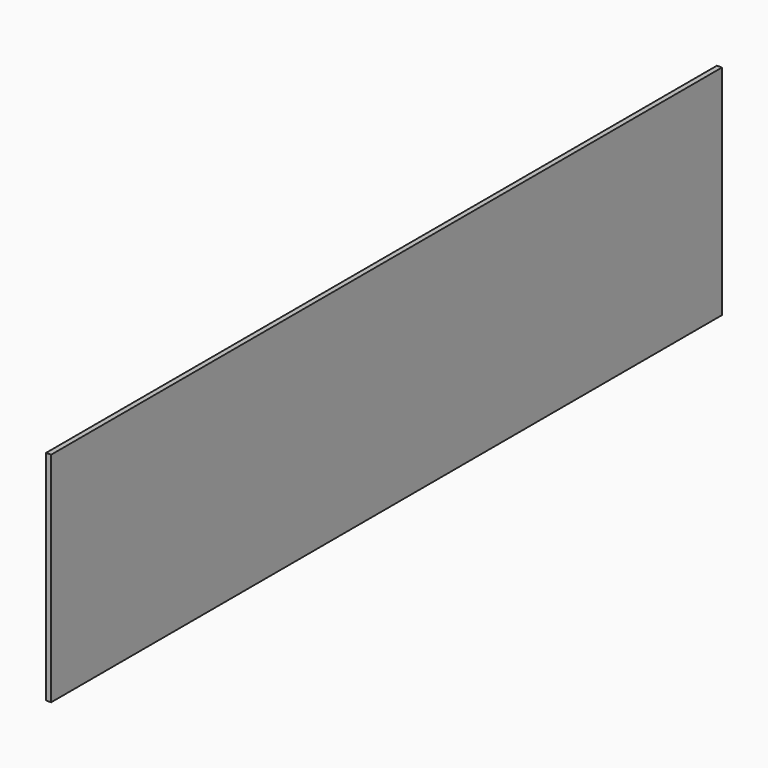
from build123d import *

# Parameters (mm, degrees)
PAD_DEPTH = 3


with BuildPart() as part:
    # Sketch → Pad (new body)
    with BuildSketch(Plane.YZ):
        Polygon((0, 0), (0, 130), (500, 130), (500, 0), (250, 0), align=None)
    extrude(amount=-PAD_DEPTH)


with BuildPart() as part_1:
    # Body placement: moved
    add(part.part.moved(Location((428, 0, 50))))


solid = part_1.part
